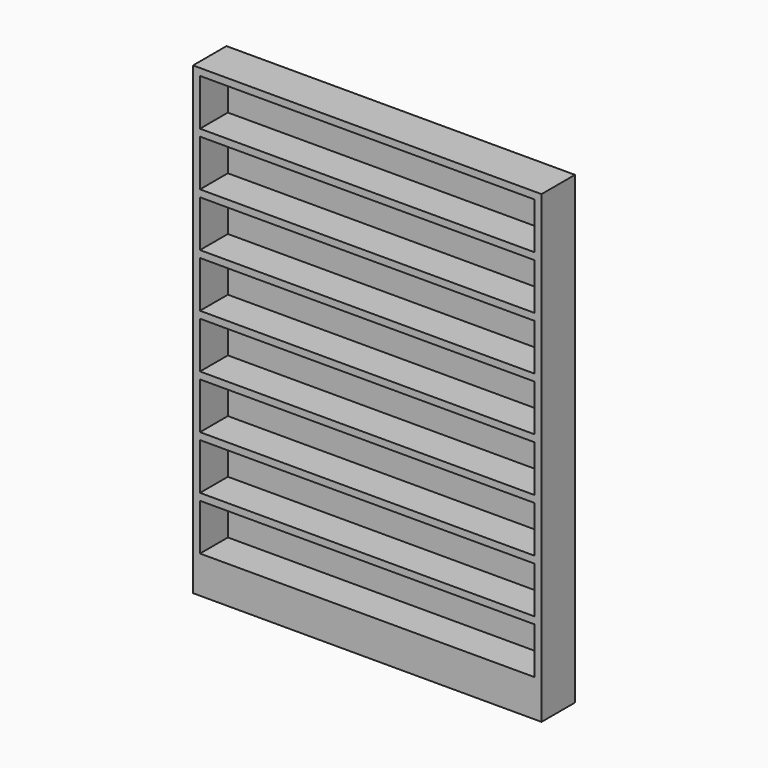
from build123d import *

# Parameters (mm, degrees)
F0_W     = 1500
F0_H     = 2000
F1_DEPTH = 180
F2_W     = 1440
F2_H     = 200
F3_DEPTH = 150


with BuildPart() as f1:
    # F0 (on Front) → F1 (new body)
    with BuildSketch(Plane.XZ):
        with Locations((750, 1000)):
            Rectangle(F0_W, F0_H)
    extrude(amount=F1_DEPTH)

    # F2 (on face) → F3 (cut)
    with BuildSketch(Plane.XZ.offset(180)):
        with Locations((750, 1870)):
            Rectangle(F2_W, F2_H)
        with Locations((750, 1640)):
            Rectangle(F2_W, F2_H)
        with Locations((750, 1410)):
            Rectangle(F2_W, F2_H)
        with Locations((750, 1180)):
            Rectangle(F2_W, F2_H)
        with Locations((750, 950)):
            Rectangle(F2_W, F2_H)
        with Locations((750, 720)):
            Rectangle(F2_W, F2_H)
        with Locations((750, 490)):
            Rectangle(F2_W, F2_H)
        with Locations((750, 260)):
            Rectangle(F2_W, F2_H)
    extrude(amount=-F3_DEPTH, mode=Mode.SUBTRACT)


solid = f1.part
